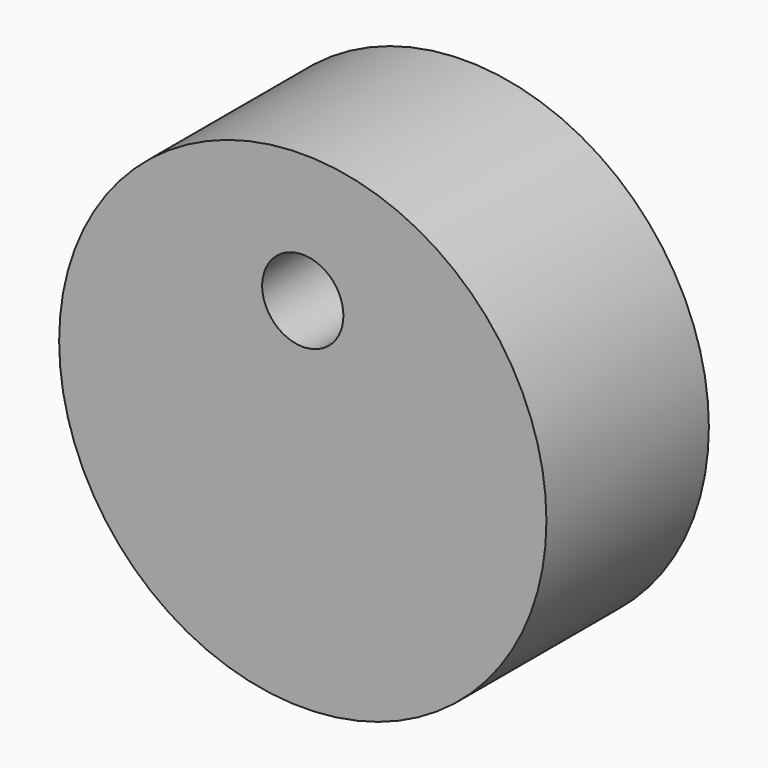
from build123d import *

# Parameters (mm, degrees)
F0_R     = 38.1
F1_DEPTH = 15.875
F2_R     = 6.35
F3_DEPTH = 15.875


with BuildPart() as f1:
    # F0 (on Front) → F1 (new body, symmetric)
    with BuildSketch(Plane.XZ):
        Circle(F0_R)
    extrude(amount=F1_DEPTH, both=True)

    # F2 (on Front) → F3 (cut, symmetric)
    with BuildSketch(Plane.XZ):
        with Locations((0, 17.92051)):
            Circle(F2_R)
    extrude(amount=F3_DEPTH, both=True, mode=Mode.SUBTRACT)


solid = f1.part
